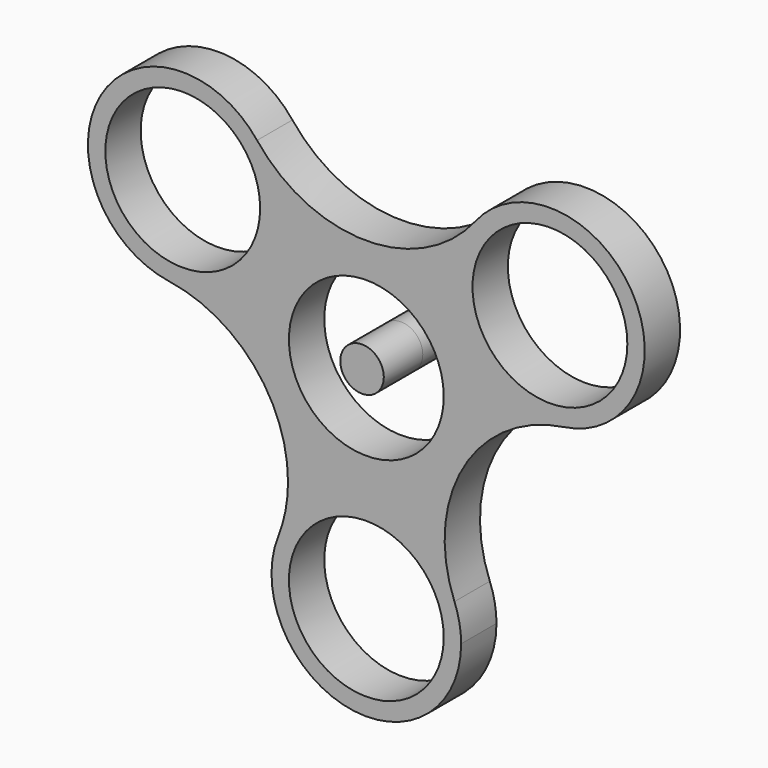
from build123d import *

# Parameters (mm, degrees)
F0_R          = 11.125
F1_DEPTH      = 6.35
F2_R          = 3.1269163301
F3_DEPTH      = 7
F3_DEPTH_BACK = 7


with BuildPart() as f1:
    # F0 (on Front) → F1 (new body)
    with BuildSketch(Plane.XZ):
        with BuildLine():
            ThreePointArc((28.3672185099, 1.7531009709), (14.5848286828, 8.4205547302), (15.7018391925, 23.6901813301))
            ThreePointArc((15.7018391925, 23.6901813301), (1.405e-07, 16.0941633395), (-15.7018390181, 23.6901811098))
            ThreePointArc((-15.7018390181, 23.6901811098), (-13.5160360797, 19.7102410279), (-12.7594247938, 15.2330547571))
            ThreePointArc((-12.7594247938, 15.2330547571), (-17.4786666532, 4.9215031309), (-28.3672188401, 1.7531010194))
            ThreePointArc((-28.3672188401, 1.7531010194), (-16.1251622715, -4.9702980911), (-11.2548773539, -18.0604611706))
            ThreePointArc((-11.2548773539, -18.0604611706), (-11.6106632686, -21.8186381121), (-12.6653795647, -25.4432830707))
            ThreePointArc((-12.6653795647, -25.4432830707), (-1.291e-07, -16.8411095142), (12.6653794695, -25.4432828307))
            ThreePointArc((12.6653794695, -25.4432828307), (13.9379541753, -8.0470818938), (28.3672185099, 1.7531009709))
        make_face()
        Circle(F0_R, mode=Mode.SUBTRACT)
        with BuildLine():
            ThreePointArc((28.3672185099, 1.7531009709), (36.695976311, 6.3272964902), (40.0094247938, 15.2330547571))
            ThreePointArc((40.0094247938, 15.2330547571), (30.8616111972, 28.101443425), (15.7018391925, 23.6901813301))
            ThreePointArc((15.7018391925, 23.6901813301), (14.5848286828, 8.4205547302), (28.3672185099, 1.7531009709))
        make_face()
        with Locations((26.3844247938, 15.2330547571)):
            Circle(F0_R, mode=Mode.SUBTRACT)
        with BuildLine():
            ThreePointArc((-12.7594247938, 15.2330547571), (-13.5160360797, 19.7102410279), (-15.7018390181, 23.6901811098))
            ThreePointArc((-15.7018390181, 23.6901811098), (-38.1840207511, 22.0455550502), (-28.3672188401, 1.7531010194))
            ThreePointArc((-28.3672188401, 1.7531010194), (-17.4786666532, 4.9215031309), (-12.7594247938, 15.2330547571))
        make_face()
        with Locations((-26.3844247938, 15.2330547571)):
            Circle(F0_R, mode=Mode.SUBTRACT)
        with BuildLine():
            ThreePointArc((13.625, -30.4661095142), (13.3829447483, -27.9092726278), (12.6653794695, -25.4432828307))
            ThreePointArc((12.6653794695, -25.4432828307), (-1.291e-07, -16.8411095142), (-12.6653795647, -25.4432830707))
            ThreePointArc((-12.6653795647, -25.4432830707), (-2.5568367596, -43.8490542868), (13.625, -30.4661095142))
        make_face()
        with Locations((0, -30.4661095142)):
            Circle(F0_R, mode=Mode.SUBTRACT)
    extrude(amount=F1_DEPTH)


with BuildPart() as f3:
    # F2 (on Front) → F3 (new body, two sides)
    with BuildSketch(Plane.XZ) as f3_sk:
        with Locations((-0.094798037, 0.0947985827)):
            Circle(F2_R)
    extrude(amount=-F3_DEPTH)
    extrude(f3_sk.sketch, amount=F3_DEPTH_BACK)


solid = Compound([f1.part, f3.part])
